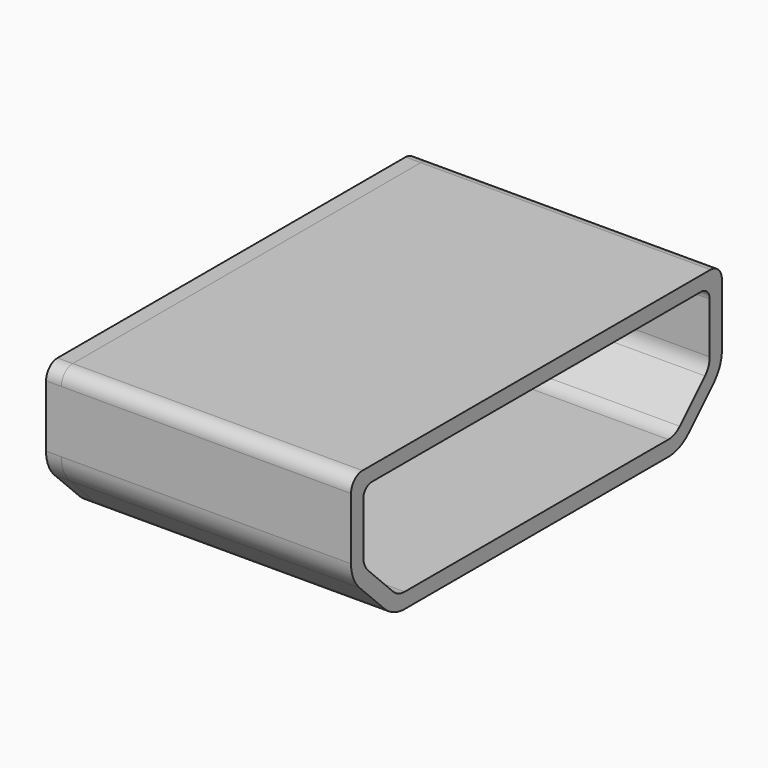
from build123d import *

# Parameters (mm, degrees)
SKETCH077_W                   = 3.25
SKETCH077_H                   = 0.3
PAD102_DEPTH                  = 4
PAD101_DEPTH                  = 0.25
PAD100_DEPTH                  = 4.75
PAD023BODY001_PLACEMENT_ANGLE = 90


with BuildPart() as part:
    # Sketch077 → Pad102 (new body)
    with BuildSketch(Plane(origin=(0, 1.75, 0), x_dir=(-1, 0, 0), z_dir=(0, 1, 0))):
        with Locations((0, 0.5)):
            Rectangle(SKETCH077_W, SKETCH077_H)
    extrude(amount=-PAD102_DEPTH)

    # Sketch076 → Pad101 (join)
    with BuildSketch(Plane.XZ.offset(-1.75)):
        with BuildLine():
            Line((3.565827, 1.174586), (-3.565827, 1.174586))
            ThreePointArc((-3.565827, 1.174586), (-3.731412, 1.105999), (-3.8, 0.940414))
            Line((-3.8, -0.074586), (-3.8, 0.940414))
            ThreePointArc((-3.8, -0.074586), (-3.755291, -0.299355), (-3.62797, -0.489904))
            Line((-3.62797, -0.489904), (-3.115317, -1.002556))
            ThreePointArc((-3.115317, -1.002556), (-2.924768, -1.129877), (-2.7, -1.174586))
            Line((-2.7, -1.174586), (2.7, -1.174586))
            ThreePointArc((2.7, -1.174586), (2.924768, -1.129877), (3.115317, -1.002556))
            Line((3.115317, -1.002556), (3.62797, -0.489904))
            ThreePointArc((3.62797, -0.489904), (3.755291, -0.299355), (3.8, -0.074586))
            Line((3.8, 0.940414), (3.8, -0.074586))
            ThreePointArc((3.8, 0.940414), (3.731412, 1.105999), (3.565827, 1.174586))
        make_face()
    extrude(amount=-PAD101_DEPTH)

    # Sketch078 → Pad100 (join)
    with BuildSketch(Plane(origin=(0, -3, 0), x_dir=(-1, 0, 0), z_dir=(0, 1, 0))):
        with BuildLine():
            Line((-3.565, 1.175), (3.565, 1.175))
            ThreePointArc((3.8, 0.94), (3.73117, 1.10617), (3.565, 1.175))
            Line((3.8, 0.94), (3.8, -0.075))
            ThreePointArc((3.62797, -0.490317), (3.755291, -0.299768), (3.8, -0.075))
            Line((3.62797, -0.490317), (3.115317, -1.00297))
            ThreePointArc((2.7, -1.175), (2.924768, -1.130291), (3.115317, -1.00297))
            Line((2.7, -1.175), (-2.7, -1.175))
            ThreePointArc((-3.115317, -1.00297), (-2.924768, -1.130291), (-2.7, -1.175))
            Line((-3.115317, -1.00297), (-3.62797, -0.490317))
            ThreePointArc((-3.8, -0.075), (-3.755291, -0.299768), (-3.62797, -0.490317))
            Line((-3.8, -0.075), (-3.8, 0.94))
            ThreePointArc((-3.565, 1.175), (-3.73117, 1.10617), (-3.8, 0.94))
        make_face()
        with BuildLine():
            Line((-3.373361, 0.935), (3.373361, 0.935))
            ThreePointArc((3.55, 0.758361), (3.498264, 0.883264), (3.373361, 0.935))
            Line((3.55, 0.758361), (3.55, -0.077967))
            ThreePointArc((3.453274, -0.311484), (3.524862, -0.204346), (3.55, -0.077967))
            Line((3.453274, -0.311484), (2.936484, -0.828274))
            ThreePointArc((2.702967, -0.925), (2.829346, -0.899862), (2.936484, -0.828274))
            Line((2.702967, -0.925), (-2.702967, -0.925))
            ThreePointArc((-2.936484, -0.828274), (-2.829346, -0.899862), (-2.702967, -0.925))
            Line((-2.936484, -0.828274), (-3.453274, -0.311484))
            ThreePointArc((-3.55, -0.077967), (-3.524862, -0.204346), (-3.453274, -0.311484))
            Line((-3.55, -0.077967), (-3.55, 0.758361))
            ThreePointArc((-3.373361, 0.935), (-3.498264, 0.883264), (-3.55, 0.758361))
        make_face(mode=Mode.SUBTRACT)
    extrude(amount=PAD100_DEPTH)


with BuildPart() as part_1:
    # Pad023Body001 placement: moved
    add(part.part.moved(Location((15, -6.7, 1.175))).rotate(Axis((15, -6.7, 1.175), (0, 0, 1)), PAD023BODY001_PLACEMENT_ANGLE))


solid = part_1.part
